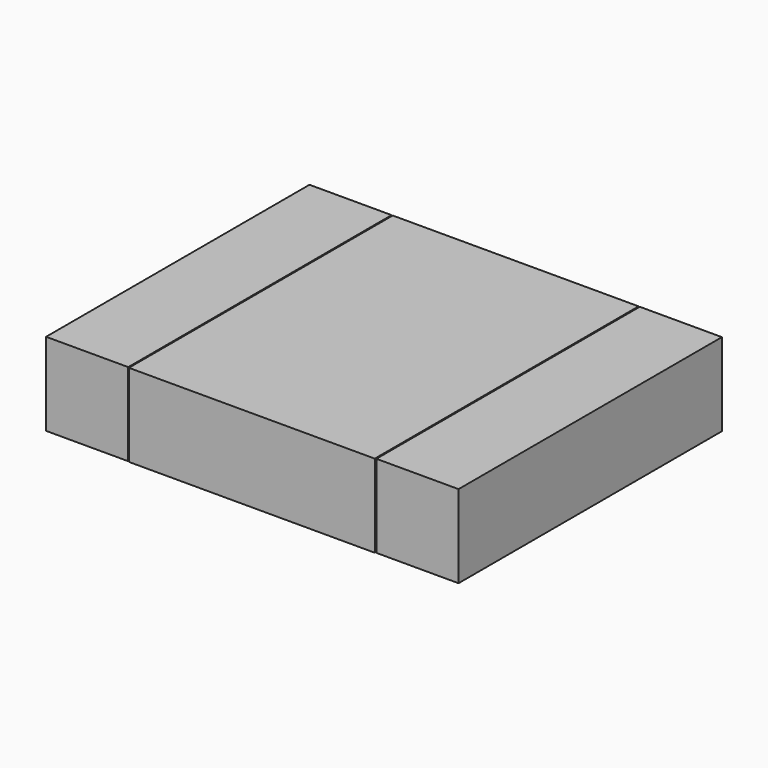
from build123d import *

# Parameters (mm, degrees)
F0_W     = 113.066413
F0_H     = 151.654705
F1_DEPTH = 38.1
F2_W     = 37.77875
F2_H     = 151.38486
F3_DEPTH = 38.1


with BuildPart() as f1:
    # F0 (on Top) → F1 (new body)
    with BuildSketch(Plane.XY):
        with Locations((-19.024301, -0.134922)):
            Rectangle(F0_W, F0_H)
        with Locations((-19.024301, -0.134922)):
            Rectangle(F0_W, F0_H)
    extrude(amount=F1_DEPTH)


with BuildPart() as f3:
    # F2 (on Top) → F3 (new body)
    with BuildSketch(Plane.XY):
        with Locations((56.937978, 0)):
            Rectangle(F2_W, F2_H)
    extrude(amount=F3_DEPTH)


with BuildPart() as f4_1:
    # F4: copy of F3
    add(f3.part.moved(Location((-151.892, 0, 0))))


solid = Compound([f1.part, f3.part, f4_1.part])
